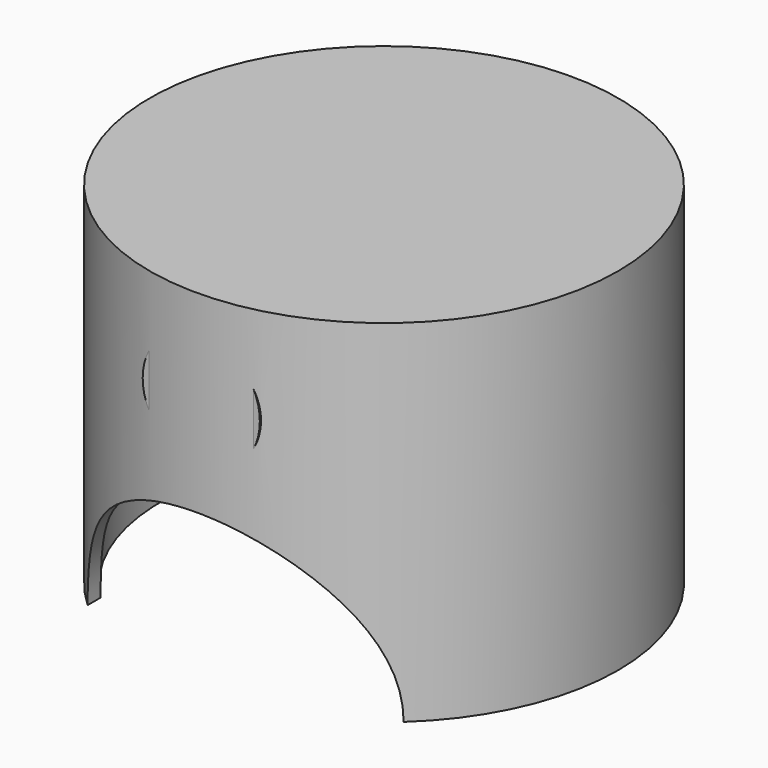
from build123d import *

# Parameters (mm, degrees)
F0_W     = 50.8
F0_H     = 76.2
F2_T     = -2.54
F4_DEPTH = 60.96
F5_R     = 12.7
F6_DEPTH = 49.53


with BuildPart() as f1:
    # F0 (on Front) → F1 (revolve)
    with BuildSketch(Plane.XZ):
        Rectangle(F0_W, F0_H)
    revolve(axis=Axis((-25.4, 0, 0), (0, 0, 1)))

    # F2
    f2_openings = [f1.faces().sort_by_distance(p)[0] for p in [
        (-25.4, 0, -38.1),
    ]]
    offset(amount=F2_T, openings=f2_openings)

    # F3 (on Front) → F4 (cut, symmetric)
    with BuildSketch(Plane.XZ):
        with BuildLine():
            ThreePointArc((8.870553, -38.1), (-25.4, -3.829447), (-59.670553, -38.1))
            Line((-59.670553, -38.1), (8.870553, -38.1))
        make_face()
    extrude(amount=F4_DEPTH, both=True, mode=Mode.SUBTRACT)

    # F5 (on Front) → F6 (join, symmetric)
    with BuildSketch(Plane.XZ):
        with Locations((-25.4, 17.153753)):
            Circle(F5_R)
    extrude(amount=F6_DEPTH, both=True)


solid = f1.part
